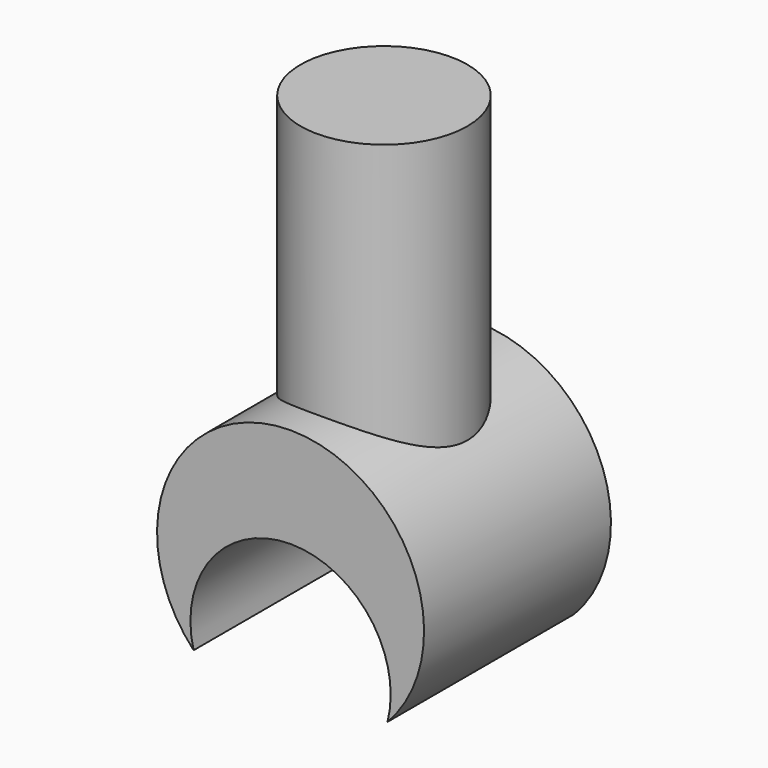
from build123d import *

# Parameters (mm, degrees)
F1_DEPTH = 1.75
F2_R     = 1.25
F3_DEPTH = 5


with BuildPart() as f1:
    # F0 (on Front) → F1 (new body, symmetric)
    with BuildSketch(Plane.XZ):
        with BuildLine():
            ThreePointArc((-1.452369, -2.079314), (0, -0.204314), (1.452369, -2.079314))
            ThreePointArc((1.452369, -2.079314), (0, 1.295686), (-1.452369, -2.079314))
        make_face()
    extrude(amount=F1_DEPTH, both=True)

    # F2 (on Top) → F3 (join)
    with BuildSketch(Plane.XY):
        Circle(F2_R)
    extrude(amount=F3_DEPTH)


solid = f1.part
